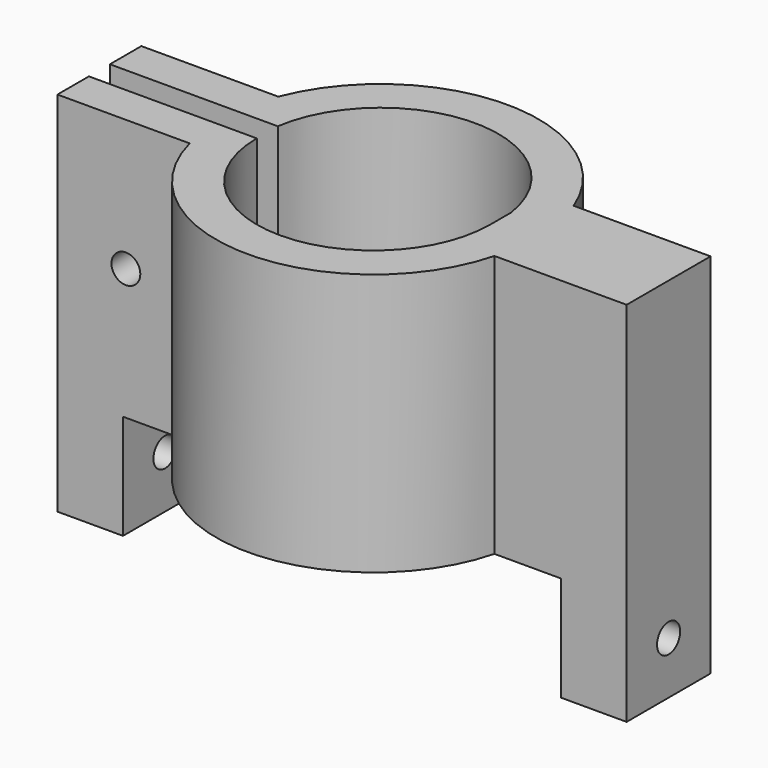
from build123d import *

# Parameters (mm, degrees)
F1_DEPTH = 20
F4_DEPTH = 20
F2_W     = 2
F2_H     = 20
F5_DEPTH = 12.8
F2_R     = 1.1
F6_DEPTH = 5
F7_W     = 3
F7_H     = 1.5
F7_R     = 1.1
F8_DEPTH = 5
F10_D    = 2.2


with BuildPart() as f1:
    # F0 (on Top) → F1 (new body)
    with BuildSketch(Plane.XY):
        with BuildLine():
            Line((-8.9, -3), (-8.9, 0))
            Line((-8.9, 0), (-12, 0))
            ThreePointArc((-12, 0), (-11.9043563552, -1.5120515098), (-11.6189500386, -3))
            Line((-11.6189500386, -3), (-8.9, -3))
        make_face()
        with BuildLine():
            ThreePointArc((8.9, 0), (0, -8.9), (-8.9, 0))
            Line((-8.9, 0), (-8.9, -3))
            Line((-8.9, -3), (-11.6189500386, -3))
            ThreePointArc((-11.6189500386, -3), (0, -12), (11.6189500386, -3))
            Line((11.6189500386, -3), (8.9, -3))
            Line((8.9, -3), (8.9, 0))
        make_face()
        with BuildLine():
            Line((12, 0), (8.9, 0))
            Line((8.9, 0), (8.9, -3))
            Line((8.9, -3), (11.6189500386, -3))
            ThreePointArc((11.6189500386, -3), (11.9043563552, -1.5120515098), (12, 0))
        make_face()
        with BuildLine():
            ThreePointArc((-11.6189500386, -3), (-11.9043563552, -1.5120515098), (-12, 0))
            Line((-12, 0), (-21.7, 0))
            Line((-21.7, 0), (-21.7, -3))
            Line((-21.7, -3), (-11.6189500386, -3))
        make_face()
        with BuildLine():
            Line((21.7, 0), (12, 0))
            ThreePointArc((12, 0), (11.9043563552, -1.5120515098), (11.6189500386, -3))
            Line((11.6189500386, -3), (21.7, -3))
            Line((21.7, -3), (21.7, 0))
        make_face()
    extrude(amount=-F1_DEPTH)



with BuildPart() as f4:
    # F3 (on Top) → F4 (new body)
    with BuildSketch(Plane.XY):
        with BuildLine():
            Line((-21.7, 2), (-12, 2))
            ThreePointArc((-12, 2), (-11.7273581741, 3.5236938591), (-11.2620660942, 5))
            Line((-11.2620660942, 5), (-21.7, 5))
            Line((-21.7, 5), (-21.7, 2))
        make_face()
        with BuildLine():
            Line((-12, 2), (-8.9, 2))
            Line((-8.9, 2), (-8.9, 5))
            Line((-8.9, 5), (-11.2620660942, 5))
            ThreePointArc((-11.2620660942, 5), (-11.7273581741, 3.5236938591), (-12, 2))
        make_face()
        with BuildLine():
            ThreePointArc((-8.9, 2), (0, 9.662091184), (8.9, 2))
            Line((8.9, 2), (8.9, 5))
            Line((8.9, 5), (11.2620660942, 5))
            ThreePointArc((11.2620660942, 5), (0, 12.7159530528), (-11.2620660942, 5))
            Line((-11.2620660942, 5), (-8.9, 5))
            Line((-8.9, 5), (-8.9, 2))
        make_face()
        with BuildLine():
            ThreePointArc((11.2620660942, 5), (11.7273581741, 3.5236938591), (12, 2))
            Line((12, 2), (21.7, 2))
            Line((21.7, 2), (21.7, 5))
            Line((21.7, 5), (11.2620660942, 5))
        make_face()
        with BuildLine():
            Line((8.9, 5), (8.9, 2))
            Line((8.9, 2), (12, 2))
            ThreePointArc((12, 2), (11.7273581741, 3.5236938591), (11.2620660942, 5))
            Line((11.2620660942, 5), (8.9, 5))
        make_face()
    extrude(amount=-F4_DEPTH)


with BuildPart() as f1_1:
    add(f1.part)

    add(f4.part)  # F5 merges F4
    # F2 (on face) → F5 (join)
    with BuildSketch(Plane.YZ.offset(21.7)):
        with Locations((1, -10)):
            Rectangle(F2_W, F2_H)
    extrude(amount=-F5_DEPTH)

    # F2 (on face) → F6 (join)
    with BuildSketch(Plane.YZ.offset(21.7)):
        Polygon((2, -20), (0, -20), (-3, -20), (-3, -28), (5, -28), (5, -20), align=None)
        with Locations((1, -24)):
            Circle(F2_R, mode=Mode.SUBTRACT)
    extrude(amount=-F6_DEPTH)

    # F7 (on face) → F8 (join)
    with BuildSketch(Plane(origin=(-21.7, 0, 0), x_dir=(0, -1, 0), z_dir=(-1, 0, 0))):
        with Locations((1.5, -20.75)):
            Rectangle(F7_W, F7_H)
        Polygon((3, -28), (3, -21.5), (0, -21.5), (-5, -21.5), (-5, -28), align=None)
        with Locations((-1, -24)):
            Circle(F7_R, mode=Mode.SUBTRACT)
    extrude(amount=-F8_DEPTH)

    # F10 (through all)
    with Locations(Plane(origin=(0, 5, 0), x_dir=(-1, 0, 0), z_dir=(0, 1, 0))):
        with Locations((16.481, -10)):
            Hole(F10_D / 2)


solid = f1_1.part
